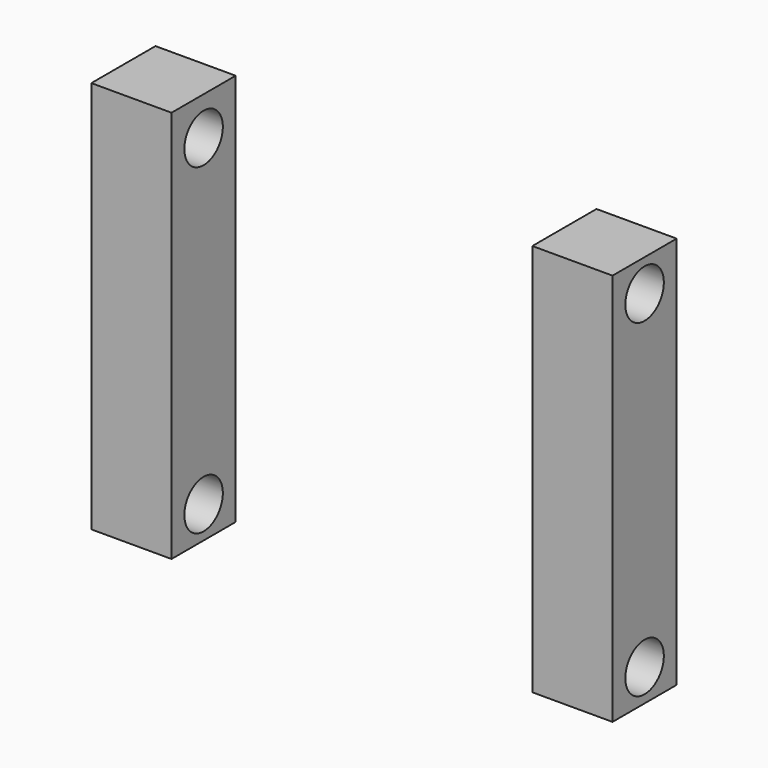
from build123d import *

# Parameters (mm, degrees)
F0_W     = 100
F0_H     = 100
F1_DEPTH = 490
F2_R     = 30
F4_DEPTH = 100
F3_R     = 30
F5_DEPTH = 100
F6_R     = 30
F7_DEPTH = 100
F8_R     = 30
F9_DEPTH = 100


with BuildPart() as f1:
    # F0 (on Top) → F1 (new body)
    with BuildSketch(Plane.XY):
        with Locations((-275, 0)):
            Rectangle(F0_W, F0_H)
        with Locations((275, 0)):
            Rectangle(F0_W, F0_H)
    extrude(amount=F1_DEPTH)

    # F2 (on face) → F4 (cut)
    with BuildSketch(Plane(origin=(-325, 0, 0), x_dir=(0, -1, 0), z_dir=(-1, 0, 0))):
        with Locations((0, 441.978755)):
            Circle(F2_R)
    extrude(amount=-F4_DEPTH, mode=Mode.SUBTRACT)

    # F3 (on face) → F5 (cut)
    with BuildSketch(Plane.YZ.offset(325)):
        with Locations((0, 450)):
            Circle(F3_R)
    extrude(amount=-F5_DEPTH, mode=Mode.SUBTRACT)

    # F6 (on face) → F7 (cut)
    with BuildSketch(Plane.YZ.offset(325)):
        with Locations((0, 40)):
            Circle(F6_R)
    extrude(amount=-F7_DEPTH, mode=Mode.SUBTRACT)

    # F8 (on face) → F9 (cut)
    with BuildSketch(Plane(origin=(-325, 0, 0), x_dir=(0, -1, 0), z_dir=(-1, 0, 0))):
        with Locations((0, 40)):
            Circle(F8_R)
    extrude(amount=-F9_DEPTH, mode=Mode.SUBTRACT)


solid = f1.part
